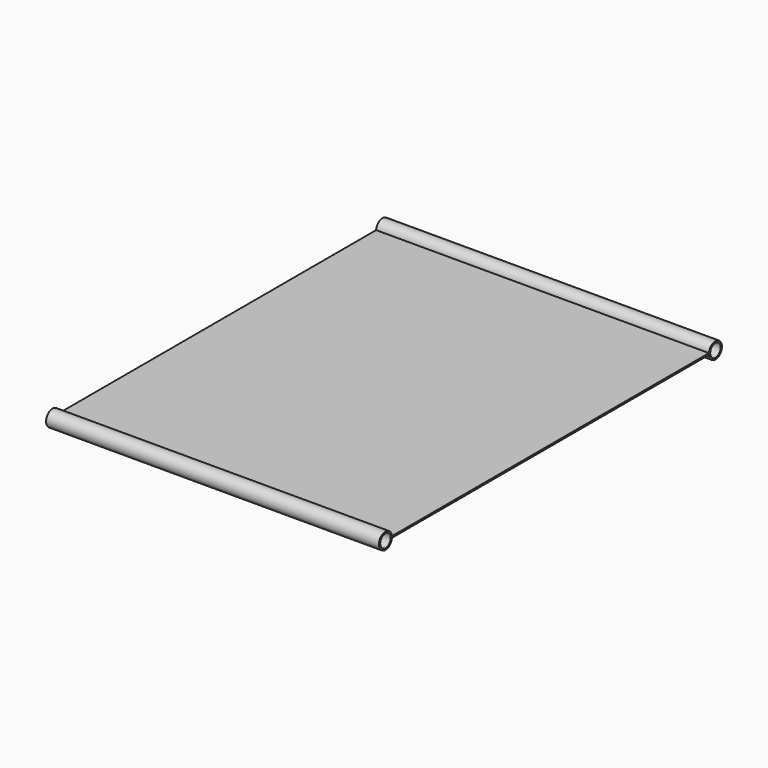
from build123d import *

# Parameters (mm, degrees)
F0_W          = 210
F0_H          = 250
F1_DEPTH      = 0.5
F2_R          = 5.125
F2_R_2        = 4.125
F3_DEPTH      = 105
F3_DEPTH_BACK = 105


with BuildPart() as f1:
    # F0 (on Top) → F1 (new body, symmetric)
    with BuildSketch(Plane.XY):
        Rectangle(F0_W, F0_H)
    extrude(amount=F1_DEPTH, both=True)

    # F2 (on Right) → F3 (join, two sides)
    with BuildSketch(Plane.YZ) as f3_sk:
        with Locations((-130.100551, 0)):
            Circle(F2_R)
        with Locations((-130.100551, 0)):
            Circle(F2_R_2, mode=Mode.SUBTRACT)
    extrude(amount=F3_DEPTH)
    extrude(f3_sk.sketch, amount=-F3_DEPTH_BACK)

    # F4: F1 across plane


with BuildPart() as f1_1:
    add(f1.part)
    add(f1.part.mirror(Plane.XZ))


solid = f1_1.part
